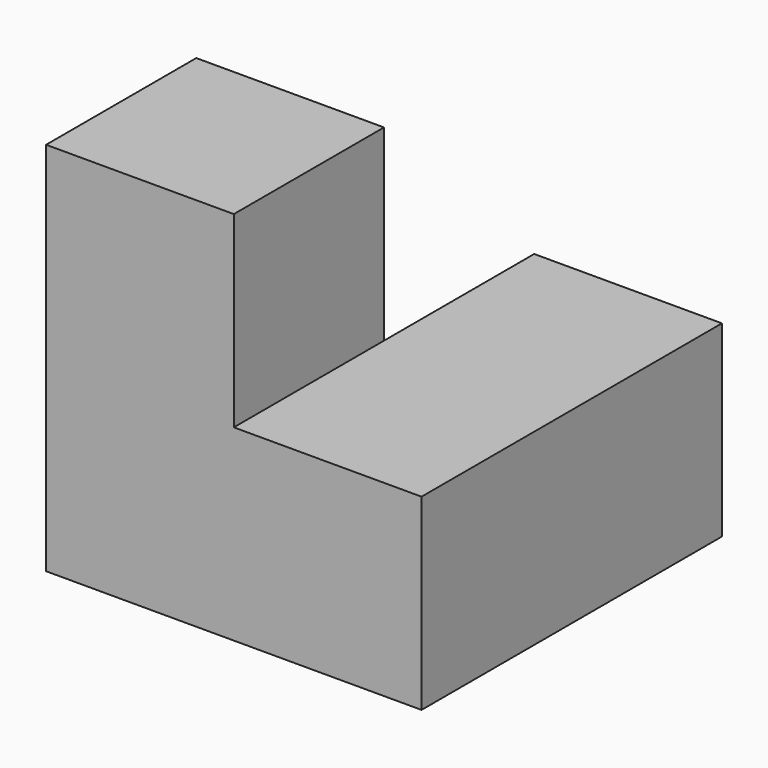
from build123d import *

# Parameters (mm, degrees)
F0_W     = 38.1
F0_H     = 19.05
F1_DEPTH = 19.05
F2_W     = 19.05
F2_H     = 19.05
F3_DEPTH = 19.05
F4_W     = 19.05
F4_H     = 19.05
F5_DEPTH = 19.05


with BuildPart() as f1:
    # F0 (on Front) → F1 (new body)
    with BuildSketch(Plane.XZ):
        with Locations((5.6387989342, -0.0761999995)):
            Rectangle(F0_W, F0_H)
    extrude(amount=F1_DEPTH)

    # F2 (on face) → F3 (join)
    with BuildSketch(Plane(origin=(0, 0, -9.6011999995), x_dir=(1, 0, 0), z_dir=(0, 0, -1))):
        with Locations((15.1637989342, -9.525)):
            Rectangle(F2_W, F2_H)
    extrude(amount=-F3_DEPTH)

    # F4 (on face) → F5 (join)
    with BuildSketch(Plane.XY.offset(9.4488000005)):
        with Locations((-3.8862010658, -9.525)):
            Rectangle(F4_W, F4_H)
    extrude(amount=F5_DEPTH)


solid = f1.part
